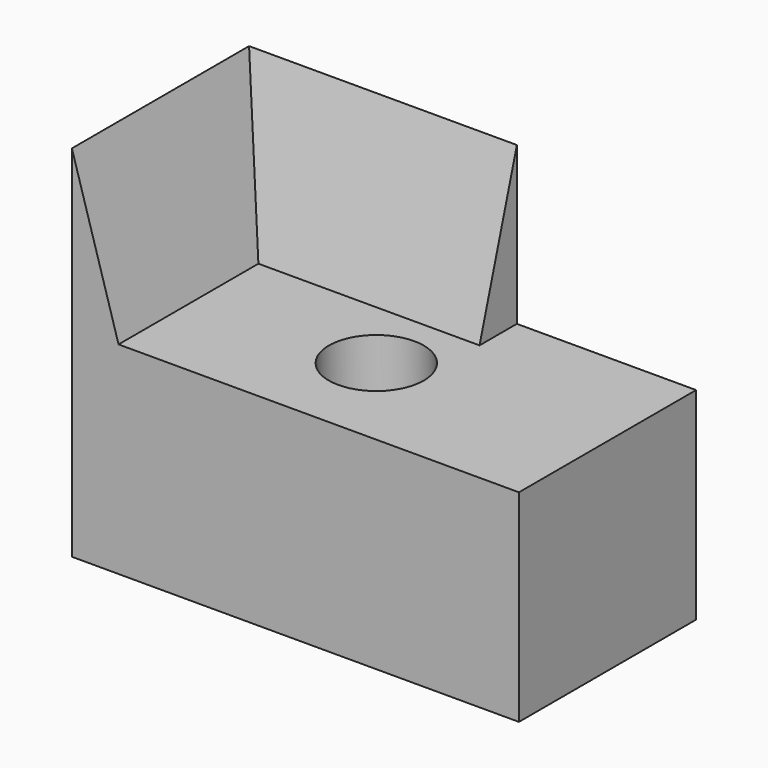
from build123d import *

# Parameters (mm, degrees)
F1_DEPTH = 50
F3_DEPTH = 50.4
F4_R     = 10.712345
F5_DEPTH = 50
F6_DEPTH = 10


with BuildPart() as f1:
    # F0 (on Front) → F1 (new body)
    with BuildSketch(Plane.XZ):
        Polygon((-50.462149, 58.360573), (-50.462149, 22.817668), (-39.930917, 22.817668), align=None)
        Polygon((-39.930917, 22.817668), (-50.462149, 22.817668), (-50.462149, -22.817668), (50.462149, -22.817668), (50.462149, 22.817668), align=None)
    extrude(amount=-F1_DEPTH)

    # F2 (on Right) → F3 (join)
    with BuildSketch(Plane.YZ):
        Polygon((39.464, 22.817668), (50, 22.817668), (50, 58.360573), align=None)
    extrude(amount=-F3_DEPTH)

    # F4 (on face) → F5 (cut)
    with BuildSketch(Plane.XY.offset(22.817668)):
        with Locations((0, 22.833524)):
            Circle(F4_R)
    extrude(amount=-F5_DEPTH, mode=Mode.SUBTRACT)

    # F3_face (on face) → F6 (join)
    with BuildSketch(Plane(origin=(0, 46.488, 34.665303), x_dir=(0, 1, 0), z_dir=(1, 0, 0))):
        Polygon((-7.024, -11.847635), (3.512, -11.847635), (3.512, 23.69527), align=None)
    extrude(amount=F6_DEPTH)


solid = f1.part
